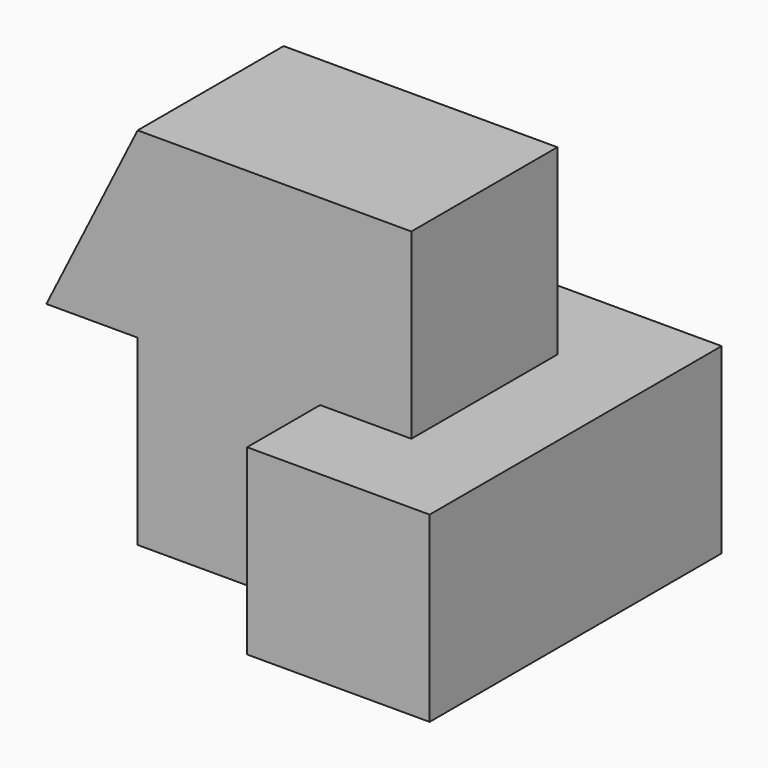
from build123d import *

# Parameters (mm, degrees)
F0_W      = 50
F0_H      = 40
F1_DEPTH  = 40
F2_W      = 10
F2_H      = 20
F3_DEPTH  = 50.001
F4_W      = 30
F4_H      = 10
F5_DEPTH  = 20.001
F6_W      = 10
F6_H      = 20
F7_DEPTH  = 20
F9_DEPTH  = 30.001
F10_W     = 10
F10_H     = 20
F11_DEPTH = 30.001


with BuildPart() as f1:
    # F0 (on Front) → F1 (new body)
    with BuildSketch(Plane.XZ):
        with Locations((25, 20)):
            Rectangle(F0_W, F0_H)
    extrude(amount=F1_DEPTH)

    # F2 (on face) → F3 (cut, through all)
    with BuildSketch(Plane(origin=(0, 0, 0), x_dir=(0, -1, 0), z_dir=(-1, 0, 0))):
        with Locations((5, 30)):
            Rectangle(F2_W, F2_H)
        with Locations((35, 30)):
            Rectangle(F2_W, F2_H)
    extrude(amount=-F3_DEPTH, mode=Mode.SUBTRACT)

    # F4 (on face) → F5 (cut, through all)
    with BuildSketch(Plane.XY.offset(20)):
        with Locations((15, -5)):
            Rectangle(F4_W, F4_H)
        with Locations((15, -35)):
            Rectangle(F4_W, F4_H)
    extrude(amount=-F5_DEPTH, mode=Mode.SUBTRACT)

    # F6 (on face) → F7 (cut, through all)
    with BuildSketch(Plane.XY.offset(40)):
        with Locations((45, -20)):
            Rectangle(F6_W, F6_H)
    extrude(amount=-F7_DEPTH, mode=Mode.SUBTRACT)

    # F8 (on face) → F9 (cut, through all)
    with BuildSketch(Plane.XZ.offset(30)):
        Polygon((10, 40), (0, 40), (0, 20), align=None)
    extrude(amount=-F9_DEPTH, mode=Mode.SUBTRACT)

    # F10 (on face) → F11 (cut, through all)
    with BuildSketch(Plane.XZ.offset(30)):
        with Locations((5, 10)):
            Rectangle(F10_W, F10_H)
    extrude(amount=-F11_DEPTH, mode=Mode.SUBTRACT)


solid = f1.part
